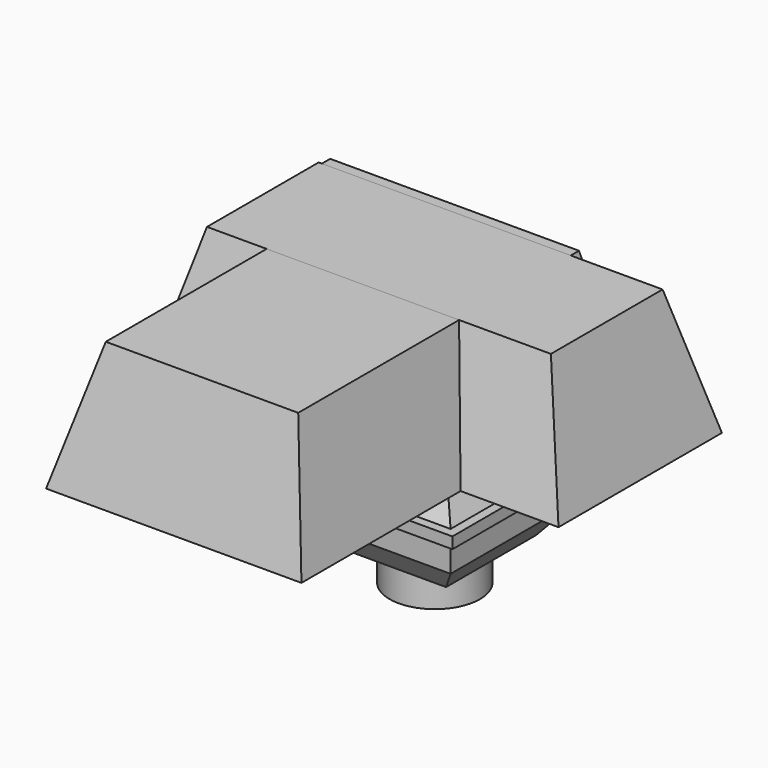
from build123d import *

# Parameters (mm, degrees)
SKETCH023_W  = 15.6
SKETCH023_H  = 15.6
PAD006_DEPTH = 1
SKETCH024_W  = 14
SKETCH024_H  = 14
PAD007_DEPTH = 2.5
SKETCH025_W  = 10
SKETCH025_H  = 10
SKETCH021_W  = 14
SKETCH021_H  = 14
SKETCH022_R  = 4
PAD008_DEPTH = 3.3
SKETCH026_W  = 14
SKETCH026_H  = 14
SKETCH027_W  = 8
SKETCH027_H  = 8
SKETCH028_W  = 15.4625
SKETCH028_H  = 12.37
SKETCH029_W  = 22.625
SKETCH029_H  = 18.1
SKETCH041_W  = 15.6
SKETCH041_H  = 15.6
PAD012_DEPTH = 1
SKETCH042_W  = 14
SKETCH042_H  = 14
PAD013_DEPTH = 2.5
SKETCH043_W  = 10
SKETCH043_H  = 10
SKETCH039_W  = 14
SKETCH039_H  = 14
SKETCH040_R  = 4
PAD014_DEPTH = 3.3
SKETCH044_W  = 14
SKETCH044_H  = 14
SKETCH045_W  = 8
SKETCH045_H  = 8
SKETCH050_W  = 15.6
SKETCH050_H  = 15.6
PAD015_DEPTH = 1
SKETCH051_W  = 14
SKETCH051_H  = 14
PAD016_DEPTH = 2.5
SKETCH052_W  = 10
SKETCH052_H  = 10
SKETCH048_W  = 14
SKETCH048_H  = 14
SKETCH049_R  = 4
PAD017_DEPTH = 3.3
SKETCH053_W  = 14
SKETCH053_H  = 14
SKETCH054_W  = 8
SKETCH054_H  = 8
SKETCH055_W  = 18.555
SKETCH055_H  = 12.37
SKETCH056_W  = 27.15
SKETCH056_H  = 18.1
SKETCH014_W  = 15.6
SKETCH014_H  = 15.6
PAD003_DEPTH = 1
SKETCH015_W  = 14
SKETCH015_H  = 14
PAD004_DEPTH = 2.5
SKETCH016_W  = 10
SKETCH016_H  = 10
SKETCH006_W  = 14
SKETCH006_H  = 14
SKETCH007_R  = 4
PAD005_DEPTH = 3.3
SKETCH017_W  = 14
SKETCH017_H  = 14
SKETCH018_W  = 8
SKETCH018_H  = 8
SKETCH019_W  = 12.37
SKETCH019_H  = 12.37
SKETCH020_W  = 18.1
SKETCH020_H  = 18.1
SKETCH032_W  = 15.6
SKETCH032_H  = 15.6
PAD009_DEPTH = 1
SKETCH033_W  = 14
SKETCH033_H  = 14
PAD010_DEPTH = 2.5
SKETCH034_W  = 10
SKETCH034_H  = 10
SKETCH030_W  = 14
SKETCH030_H  = 14
SKETCH031_R  = 4
PAD011_DEPTH = 3.3
SKETCH035_W  = 14
SKETCH035_H  = 14
SKETCH036_W  = 8
SKETCH036_H  = 8
SKETCH037_W  = 30.47
SKETCH037_H  = 12.37
SKETCH038_W  = 36.4
SKETCH038_H  = 18.1


with BuildPart() as obj1:
    # Sketch023 → Pad006 (new body)
    with BuildSketch(Plane.XY):
        Rectangle(SKETCH023_W, SKETCH023_H)
    extrude(amount=PAD006_DEPTH)

    # Sketch024 → Pad007 (join)
    with BuildSketch(Plane.XY):
        Rectangle(SKETCH024_W, SKETCH024_H)
    extrude(amount=-PAD007_DEPTH)

    # Sketch025 (on DatumPlane) → AdditiveLoft003 section 0
    with BuildSketch(Plane(origin=(0, 0, -5), x_dir=(1, 0, 0), z_dir=(0, 0, -1))):
        Rectangle(SKETCH025_W, SKETCH025_H)
    # Sketch021 (on DatumPlane) → AdditiveLoft003 section 1
    with BuildSketch(Plane(origin=(0, 0, -2.5), x_dir=(1, 0, 0), z_dir=(0, 0, -1))):
        Rectangle(SKETCH021_W, SKETCH021_H)
    loft()

    # Sketch022 (on DatumPlane) → Pad008 (join)
    with BuildSketch(Plane(origin=(0, 0, -5), x_dir=(1, 0, 0), z_dir=(0, 0, -1))):
        Circle(SKETCH022_R)
    extrude(amount=PAD008_DEPTH)

    # Sketch026 → AdditiveLoft004 section 0
    with BuildSketch(Plane.XY.offset(1)):
        Rectangle(SKETCH026_W, SKETCH026_H)
    # Sketch027 → AdditiveLoft004 section 1
    with BuildSketch(Plane.XY.offset(6.6)):
        Rectangle(SKETCH027_W, SKETCH027_H)
    loft()

    # Sketch028 → AdditiveLoft005 section 0
    with BuildSketch(Plane.XY.offset(17)):
        Rectangle(SKETCH028_W, SKETCH028_H)
    # Sketch029 → AdditiveLoft005 section 1
    with BuildSketch(Plane.XY.offset(5.61)):
        Rectangle(SKETCH029_W, SKETCH029_H)
    loft()


with BuildPart() as obj2:
    # Sketch041 → Pad012 (new body)
    with BuildSketch(Plane.XY):
        Rectangle(SKETCH041_W, SKETCH041_H)
    extrude(amount=PAD012_DEPTH)

    # Sketch042 → Pad013 (join)
    with BuildSketch(Plane.XY):
        Rectangle(SKETCH042_W, SKETCH042_H)
    extrude(amount=-PAD013_DEPTH)

    # Sketch043 (on DatumPlane) → AdditiveLoft009 section 0
    with BuildSketch(Plane(origin=(0, 0, -5), x_dir=(1, 0, 0), z_dir=(0, 0, -1))):
        Rectangle(SKETCH043_W, SKETCH043_H)
    # Sketch039 (on DatumPlane) → AdditiveLoft009 section 1
    with BuildSketch(Plane(origin=(0, 0, -2.5), x_dir=(1, 0, 0), z_dir=(0, 0, -1))):
        Rectangle(SKETCH039_W, SKETCH039_H)
    loft()

    # Sketch040 (on DatumPlane) → Pad014 (join)
    with BuildSketch(Plane(origin=(0, 0, -5), x_dir=(1, 0, 0), z_dir=(0, 0, -1))):
        Circle(SKETCH040_R)
    extrude(amount=PAD014_DEPTH)

    # Sketch044 → AdditiveLoft010 section 0
    with BuildSketch(Plane.XY.offset(1)):
        Rectangle(SKETCH044_W, SKETCH044_H)
    # Sketch045 → AdditiveLoft010 section 1
    with BuildSketch(Plane.XY.offset(6.6)):
        Rectangle(SKETCH045_W, SKETCH045_H)
    loft()

    # Sketch046 → AdditiveLoft011 section 0
    with BuildSketch(Plane.XY.offset(17)):
        Polygon((-14.95, 7.1), (7.1, 7.1), (7.1, -24), (-9.95, -24), (-9.95, -5.95), (-14.95, -5.95), align=None)
    # Sketch047 → AdditiveLoft011 section 1
    with BuildSketch(Plane.XY.offset(5.61)):
        Polygon((9.525, 9.525), (-17.625, 9.525), (-17.625, -8.575), (-13.1, -8.575), (-13.1, -26.675), (9.525, -26.675), align=None)
    loft()


with BuildPart() as obj3:
    # Sketch050 → Pad015 (new body)
    with BuildSketch(Plane.XY):
        Rectangle(SKETCH050_W, SKETCH050_H)
    extrude(amount=PAD015_DEPTH)

    # Sketch051 → Pad016 (join)
    with BuildSketch(Plane.XY):
        Rectangle(SKETCH051_W, SKETCH051_H)
    extrude(amount=-PAD016_DEPTH)

    # Sketch052 (on DatumPlane) → AdditiveLoft012 section 0
    with BuildSketch(Plane(origin=(0, 0, -5), x_dir=(1, 0, 0), z_dir=(0, 0, -1))):
        Rectangle(SKETCH052_W, SKETCH052_H)
    # Sketch048 (on DatumPlane) → AdditiveLoft012 section 1
    with BuildSketch(Plane(origin=(0, 0, -2.5), x_dir=(1, 0, 0), z_dir=(0, 0, -1))):
        Rectangle(SKETCH048_W, SKETCH048_H)
    loft()

    # Sketch049 (on DatumPlane) → Pad017 (join)
    with BuildSketch(Plane(origin=(0, 0, -5), x_dir=(1, 0, 0), z_dir=(0, 0, -1))):
        Circle(SKETCH049_R)
    extrude(amount=PAD017_DEPTH)

    # Sketch053 → AdditiveLoft013 section 0
    with BuildSketch(Plane.XY.offset(1)):
        Rectangle(SKETCH053_W, SKETCH053_H)
    # Sketch054 → AdditiveLoft013 section 1
    with BuildSketch(Plane.XY.offset(6.6)):
        Rectangle(SKETCH054_W, SKETCH054_H)
    loft()

    # Sketch055 → AdditiveLoft014 section 0
    with BuildSketch(Plane.XY.offset(17)):
        Rectangle(SKETCH055_W, SKETCH055_H)
    # Sketch056 → AdditiveLoft014 section 1
    with BuildSketch(Plane.XY.offset(5.61)):
        Rectangle(SKETCH056_W, SKETCH056_H)
    loft()


with BuildPart() as obj4:
    # Sketch014 → Pad003 (new body)
    with BuildSketch(Plane.XY):
        Rectangle(SKETCH014_W, SKETCH014_H)
    extrude(amount=PAD003_DEPTH)

    # Sketch015 → Pad004 (join)
    with BuildSketch(Plane.XY):
        Rectangle(SKETCH015_W, SKETCH015_H)
    extrude(amount=-PAD004_DEPTH)

    # Sketch016 (on DatumPlane) → AdditiveLoft section 0
    with BuildSketch(Plane(origin=(0, 0, -5), x_dir=(1, 0, 0), z_dir=(0, 0, -1))):
        Rectangle(SKETCH016_W, SKETCH016_H)
    # Sketch006 (on DatumPlane) → AdditiveLoft section 1
    with BuildSketch(Plane(origin=(0, 0, -2.5), x_dir=(1, 0, 0), z_dir=(0, 0, -1))):
        Rectangle(SKETCH006_W, SKETCH006_H)
    loft()

    # Sketch007 (on DatumPlane) → Pad005 (join)
    with BuildSketch(Plane(origin=(0, 0, -5), x_dir=(1, 0, 0), z_dir=(0, 0, -1))):
        Circle(SKETCH007_R)
    extrude(amount=PAD005_DEPTH)

    # Sketch017 → AdditiveLoft001 section 0
    with BuildSketch(Plane.XY.offset(1)):
        Rectangle(SKETCH017_W, SKETCH017_H)
    # Sketch018 → AdditiveLoft001 section 1
    with BuildSketch(Plane.XY.offset(6.6)):
        Rectangle(SKETCH018_W, SKETCH018_H)
    loft()

    # Sketch019 → AdditiveLoft002 section 0
    with BuildSketch(Plane.XY.offset(17)):
        Rectangle(SKETCH019_W, SKETCH019_H)
    # Sketch020 → AdditiveLoft002 section 1
    with BuildSketch(Plane.XY.offset(5.61)):
        Rectangle(SKETCH020_W, SKETCH020_H)
    loft()


with BuildPart() as obj5:
    # Sketch032 → Pad009 (new body)
    with BuildSketch(Plane.XY):
        Rectangle(SKETCH032_W, SKETCH032_H)
    extrude(amount=PAD009_DEPTH)

    # Sketch033 → Pad010 (join)
    with BuildSketch(Plane.XY):
        Rectangle(SKETCH033_W, SKETCH033_H)
    extrude(amount=-PAD010_DEPTH)

    # Sketch034 (on DatumPlane) → AdditiveLoft006 section 0
    with BuildSketch(Plane(origin=(0, 0, -5), x_dir=(1, 0, 0), z_dir=(0, 0, -1))):
        Rectangle(SKETCH034_W, SKETCH034_H)
    # Sketch030 (on DatumPlane) → AdditiveLoft006 section 1
    with BuildSketch(Plane(origin=(0, 0, -2.5), x_dir=(1, 0, 0), z_dir=(0, 0, -1))):
        Rectangle(SKETCH030_W, SKETCH030_H)
    loft()

    # Sketch031 (on DatumPlane) → Pad011 (join)
    with BuildSketch(Plane(origin=(0, 0, -5), x_dir=(1, 0, 0), z_dir=(0, 0, -1))):
        Circle(SKETCH031_R)
    extrude(amount=PAD011_DEPTH)

    # Sketch035 → AdditiveLoft007 section 0
    with BuildSketch(Plane.XY.offset(1)):
        Rectangle(SKETCH035_W, SKETCH035_H)
    # Sketch036 → AdditiveLoft007 section 1
    with BuildSketch(Plane.XY.offset(6.6)):
        Rectangle(SKETCH036_W, SKETCH036_H)
    loft()

    # Sketch037 → AdditiveLoft008 section 0
    with BuildSketch(Plane.XY.offset(17)):
        Rectangle(SKETCH037_W, SKETCH037_H)
    # Sketch038 → AdditiveLoft008 section 1
    with BuildSketch(Plane.XY.offset(5.61)):
        Rectangle(SKETCH038_W, SKETCH038_H)
    loft()


solid = Compound([obj1.part, obj2.part, obj3.part, obj4.part, obj5.part])
